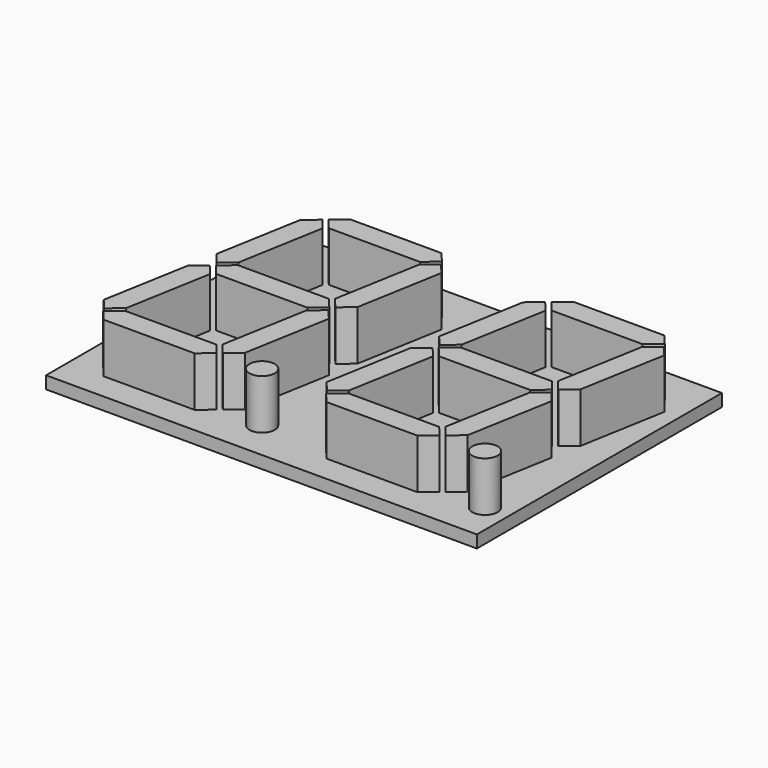
from build123d import *

# Parameters (mm, degrees)
SKETCH_W            = 34.6
SKETCH_H            = 24.6
PAD001_DEPTH        = 1
SKETCH002_R         = 1.016
PAD002_DEPTH        = 5
LINEARPATTERN_COUNT = 2
LINEARPATTERN_PITCH = 17.9


with BuildPart() as part:
    # Sketch → Pad001 (new body)
    with BuildSketch(Plane.XY):
        Rectangle(SKETCH_W, SKETCH_H)
    extrude(amount=PAD001_DEPTH)

    # Sketch002 → Pad002 (join)
    with BuildSketch(Plane.XY):
        with Locations((-2.484719, -9.134)):
            Circle(SKETCH002_R)
        Polygon((-11.875322, 9.261), (-10.815853, 10.15), (-3.50471, 10.15), (-2.75875, 9.261), (-3.818219, 8.372), (-11.129362, 8.372), align=None)
        Polygon((-12.171581, 9.021337), (-11.425621, 8.132337), (-12.643997, 1.222585), (-13.703466, 0.333585), (-14.449425, 1.222585), (-13.23105, 8.132337), align=None)
        Polygon((-2.56357, 8.927415), (-3.623039, 8.038415), (-4.841415, 1.128663), (-4.095455, 0.239663), (-3.035986, 1.128663), (-1.81761, 8.038415), align=None)
        Polygon((-12.448817, 0.889), (-13.508286, 0), (-12.762326, -0.889), (-5.451183, -0.889), (-4.391714, 0), (-5.137674, 0.889), align=None)
        Polygon((-13.804545, -0.239663), (-14.864014, -1.128663), (-16.08239, -8.038415), (-15.33643, -8.927415), (-14.276961, -8.038415), (-13.058585, -1.128663), align=None)
        Polygon((-4.196534, -0.333585), (-5.256003, -1.222585), (-6.474379, -8.132337), (-5.728419, -9.021337), (-4.66895, -8.132337), (-3.450575, -1.222585), align=None)
        Polygon((-15.14125, -9.261), (-14.081781, -8.372), (-6.770638, -8.372), (-6.024678, -9.261), (-7.084147, -10.15), (-14.39529, -10.15), align=None)
    pad002 = extrude(amount=PAD002_DEPTH)

    # LinearPattern: Pad002 ×2
    with Locations(*[(i * LINEARPATTERN_PITCH, 0, 0) for i in range(1, LINEARPATTERN_COUNT)]):
        add(pad002)


with BuildPart() as part_1:
    # Body001 placement: moved
    add(part.part.moved(Location((0, 0, 5))))


solid = part_1.part
